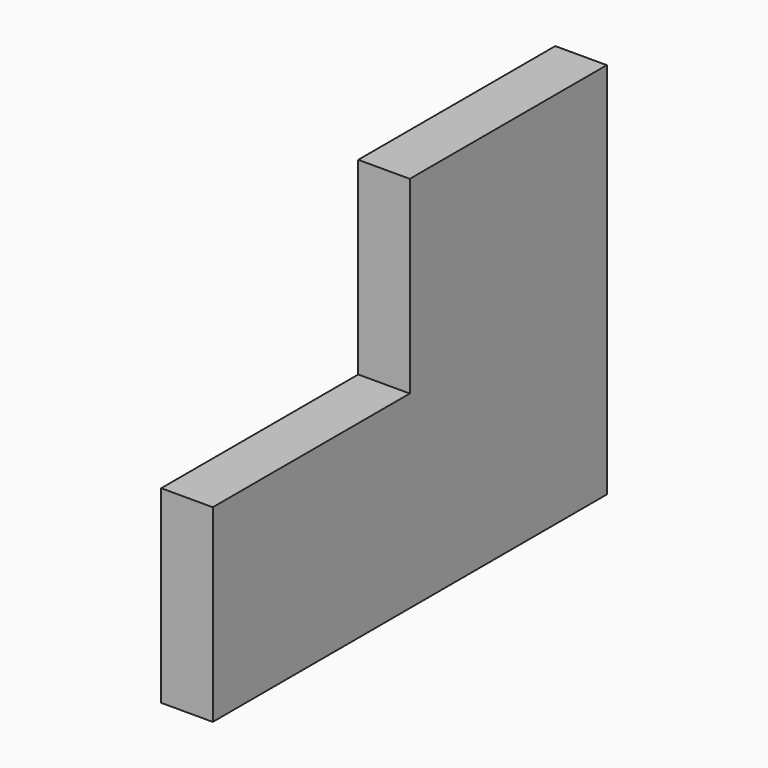
from build123d import *

# Parameters (mm, degrees)
F0_W     = 273.05
F0_H     = 228.6
F1_DEPTH = 19.05
F3_DEPTH = 19.05


with BuildPart() as f1:
    # F0 (on Right) → F1 (new body)
    with BuildSketch(Plane.YZ):
        with Locations((136.525, 114.3)):
            Rectangle(F0_W, F0_H)
    extrude(amount=-F1_DEPTH)

    # F2 (on face) → F3 (cut, through all)
    with BuildSketch(Plane.YZ):
        Polygon((182.033333, 139.7), (273.05, 139.7), (273.05, 228.6), (0, 228.6), (0, 0), (91.016667, 0), (91.016667, 69.85), (182.033333, 69.85), align=None)
    extrude(amount=-F3_DEPTH, mode=Mode.SUBTRACT)


solid = f1.part
